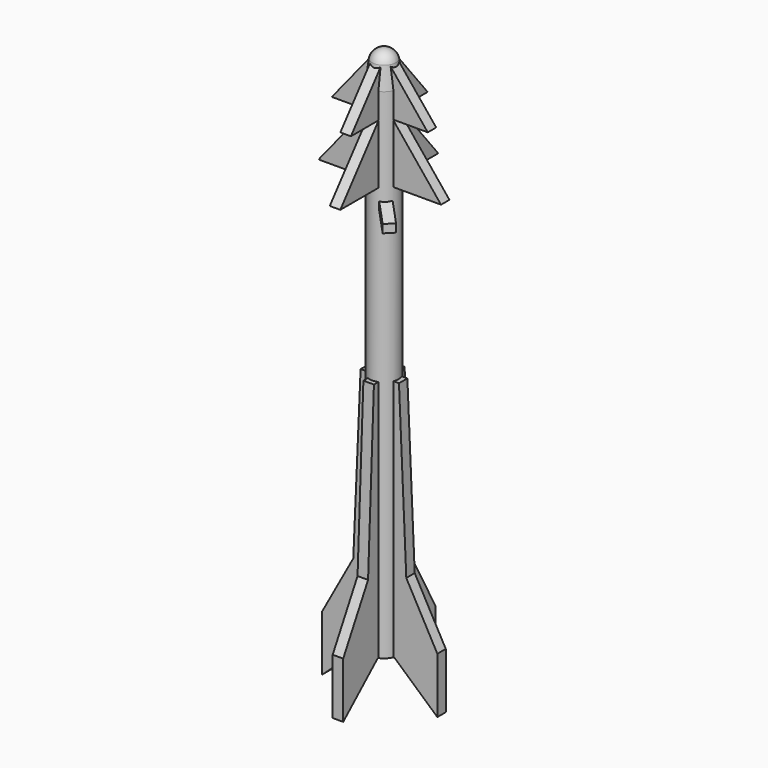
from build123d import *

# Parameters (mm, degrees)
F3_DEPTH = 0.2
F4_COUNT = 4
F7_DEPTH = 0.2


with BuildPart() as f1:
    # F0 (on Front) → F1 (revolve)
    with BuildSketch(Plane.XZ):
        with BuildLine():
            Line((0, 20.1388888889), (0, 0))
            Line((0, 0), (0.5555555556, 0))
            Line((0.5555555556, 0), (0.5555555556, 18.9583333333))
            Line((0.5555555556, 18.9583333333), (0.4513888889, 19.7916666667))
            ThreePointArc((0.4513888889, 19.7916666667), (0.2847433935, 20.0420414116), (0, 20.1388888889))
        make_face()
    revolve(axis=Axis((0, 0, 10.0694444444), (0, 0, 1)))

    # F2 (on Front) → F3 (join, symmetric)
    with BuildSketch(Plane.XZ):
        Polygon((0.2263558201, 19.9583333333), (-0.2263558201, 19.9583333333), (-1.8229166667, 17.9861111111), (-0.4993386243, 17.9861111111), (-2.3263888889, 15.7291666667), (2.3263888889, 15.7291666667), (0.4993386243, 17.9861111111), (1.8229166667, 17.9861111111), align=None)
        Polygon((0.5361597759, 0.0173323988), (0.5555555556, 0), (2.1875, -1.4583333333), (2.1875, 0.6597222222), (1.0069444444, 2.8125), (0.7291666667, 9.2361111111), (-0.7291666667, 9.2361111111), (-1.0069444444, 2.8125), (-2.1875, 0.6597222222), (-2.1875, -1.4583333333), (-0.5555555556, 0), (-0.5361597759, 0.0173323988), align=None)
        Polygon((-0.5555555556, 0), (0.5555555556, 0), (0.5361597759, 0.0173323988), (-0.5361597759, 0.0173323988), align=None)
    extrude(amount=F3_DEPTH, both=True)


with BuildPart() as f4_1:
    # F4: instance of F1
    add(f1.part.rotate(Axis((0, 0, 0), (0, 0, 1)), 1 * 360 / F4_COUNT))


with BuildPart() as f4_2:
    # F4: instance of F1
    add(f1.part.rotate(Axis((0, 0, 0), (0, 0, 1)), 2 * 360 / F4_COUNT))


with BuildPart() as f4_3:
    # F4: instance of F1
    add(f1.part.rotate(Axis((0, 0, 0), (0, 0, 1)), 3 * 360 / F4_COUNT))


with BuildPart() as f1_1:
    add(f1.part)

    add(f4_1.part)  # F7 merges F4_1

    add(f4_2.part)  # F7 merges F4_2

    add(f4_3.part)  # F7 merges F4_3
    # F6 (on face) → F7 (join, symmetric)
    with BuildSketch(Plane(origin=(0, 0, 0), x_dir=(0.7071067812, -0.7071067812, 0), z_dir=(-0.7071067812, -0.7071067812, 0))):
        Polygon((0.25, 15.3652419184), (-0.25, 15.3652419184), (-1.4370362347, 15), (-1.4370362347, 14.6875), (-0.25, 15.0527419184), (0.25, 15.0527419184), (1.4370362347, 14.6875), (1.4370362347, 15), align=None)
    extrude(amount=F7_DEPTH, both=True)


solid = f1_1.part
